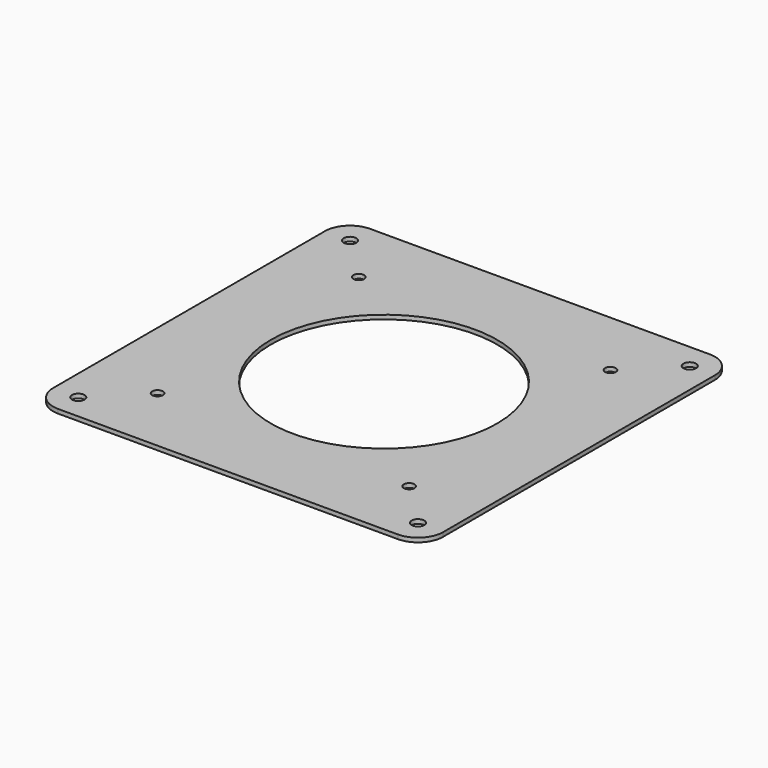
from build123d import *

# Parameters (mm, degrees)
F0_R     = 5
F0_R_2   = 4.25
F0_R_3   = 90
F1_DEPTH = 3.3


with BuildPart() as f1:
    # F0 (on Top) → F1 (new body)
    with BuildSketch(Plane.XY):
        with BuildLine():
            Line((235, 255), (-35, 255))
            ThreePointArc((-35, 255), (-49.142136, 249.142136), (-55, 235))
            Line((-55, 235), (-55, -35))
            ThreePointArc((-55, -35), (-49.142136, -49.142136), (-35, -55))
            Line((-35, -55), (235, -55))
            ThreePointArc((235, -55), (249.142136, -49.142136), (255, -35))
            Line((255, -35), (255, 235))
            ThreePointArc((255, 235), (249.142136, 249.142136), (235, 255))
        make_face()
        with Locations((-35, -35)):
            Circle(F0_R, mode=Mode.SUBTRACT)
        Circle(F0_R_2, mode=Mode.SUBTRACT)
        with Locations((235, -35)):
            Circle(F0_R, mode=Mode.SUBTRACT)
        with Locations((200, 0)):
            Circle(F0_R_2, mode=Mode.SUBTRACT)
        with Locations((0, 200)):
            Circle(F0_R_2, mode=Mode.SUBTRACT)
        with Locations((-35, 235)):
            Circle(F0_R, mode=Mode.SUBTRACT)
        with Locations((100, 100)):
            Circle(F0_R_3, mode=Mode.SUBTRACT)
        with Locations((200, 200)):
            Circle(F0_R_2, mode=Mode.SUBTRACT)
        with Locations((235, 235)):
            Circle(F0_R, mode=Mode.SUBTRACT)
    extrude(amount=F1_DEPTH)


solid = f1.part
